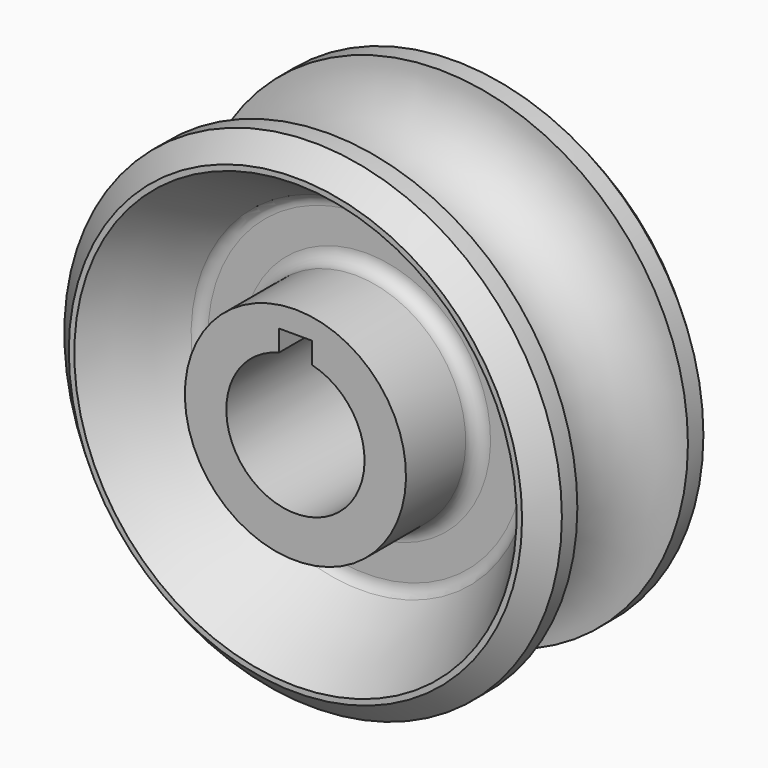
from build123d import *

# Parameters (mm, degrees)
F0_R     = 28.575
F0_R_2   = 7.9375
F1_DEPTH = 12.7
F2_R     = 7.9375
F6_R     = 1.5875
F7_SIZE2 = 2.54
F7_SIZE  = 2.54
F8_W     = 3.81
F8_H     = 10.16
F9_DEPTH = 12.7


with BuildPart() as f1:
    # F0 (on Front) → F1 (new body, symmetric)
    with BuildSketch(Plane.XZ):
        Circle(F0_R)
        Circle(F0_R_2, mode=Mode.SUBTRACT)
    extrude(amount=F1_DEPTH, both=True)

    # F2 (on Right) → F3 (revolve, cut)
    with BuildSketch(Plane.YZ):
        with Locations((0, 28.575)):
            Circle(F2_R)
    revolve(axis=Axis((0, -5.84708, 0), (0, 1, 0)), mode=Mode.SUBTRACT)

    # F4 (on Right) → F5 (revolve, cut)
    with BuildSketch(Plane.YZ):
        Polygon((12.7, 12.7), (12.7, 25.4), (2.54, 19.05), (2.54, 12.7), align=None)
        Polygon((-2.54, 12.7), (-2.54, 19.05), (-12.7, 25.4), (-12.7, 12.7), align=None)
    revolve(axis=Axis((0, -5.84708, 0), (0, 1, 0)), mode=Mode.SUBTRACT)

    # F6
    f6_edges = [f1.edges().sort_by_distance(p)[0] for p in [
        (0, -2.54, -19.05),
        (0, 2.54, -19.05),
        (0, -2.54, -12.7),
        (0, 2.54, -12.7),
    ]]
    fillet(f6_edges, radius=F6_R)

    # F7
    f7_edges = [f1.edges().sort_by_distance(p)[0] for p in [
        (-28.575, 12.7, 0),
        (-28.575, -12.7, 0),
    ]]
    chamfer(f7_edges, length=F7_SIZE, length2=F7_SIZE2)

    # F8 (on Front) → F9 (cut, symmetric)
    with BuildSketch(Plane.XZ):
        with Locations((0, 5.08)):
            Rectangle(F8_W, F8_H)
    extrude(amount=F9_DEPTH, both=True, mode=Mode.SUBTRACT)


solid = f1.part
